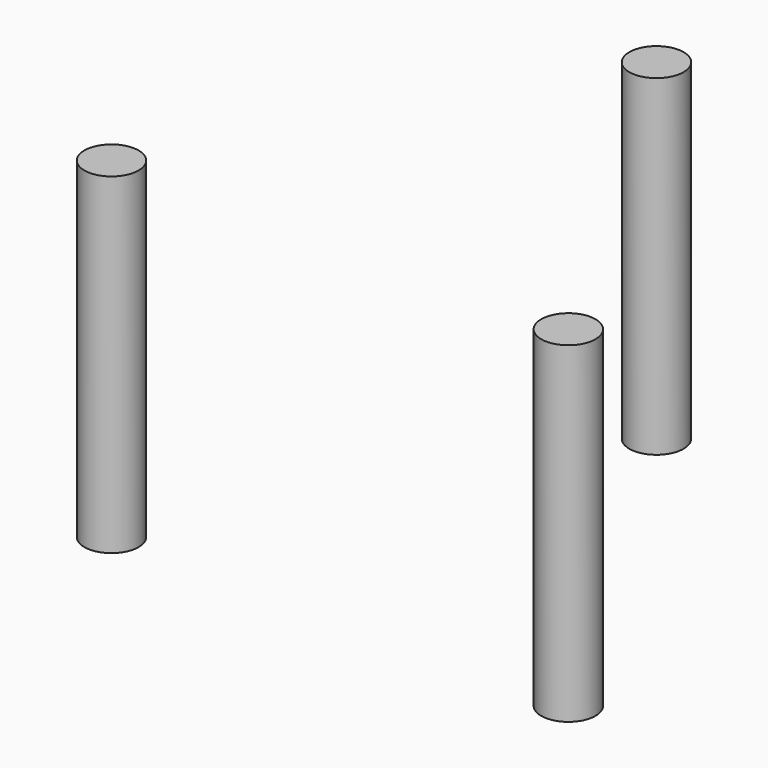
from build123d import *

# Parameters (mm, degrees)
CYLINDER037_R               = 0.9
CYLINDER037_DEPTH           = 11
CYLINDER038_R               = 0.9
CYLINDER038_DEPTH           = 11
CYLINDER038_PLACEMENT_ANGLE = -60
CYLINDER036_R               = 0.9
CYLINDER036_DEPTH           = 11
CYLINDER036_PLACEMENT_ANGLE = 60


with BuildPart() as cylinder037:
    # Cylinder037 → Cylinder037 (new body)
    with BuildSketch(Plane(origin=(0, 8.75, -2.5), x_dir=(-1, 0, 0), z_dir=(0, 0, 1))):
        Circle(CYLINDER037_R)
    extrude(amount=CYLINDER037_DEPTH)


with BuildPart() as cylinder038:
    # Cylinder038 → Cylinder038 (new body)
    with BuildSketch(Plane.XY):
        Circle(CYLINDER038_R)
    extrude(amount=CYLINDER038_DEPTH)


with BuildPart() as cylinder038_1:
    # Cylinder038 placement: moved
    add(cylinder038.part.moved(Location((-7.577722, -4.375, -2.5))).rotate(Axis((-7.577722, -4.375, -2.5), (0, 0, 1)), CYLINDER038_PLACEMENT_ANGLE))


with BuildPart() as fusion011:
    # Cylinder036 → Cylinder036 (new body)
    with BuildSketch(Plane.XY):
        Circle(CYLINDER036_R)
    extrude(amount=CYLINDER036_DEPTH)


with BuildPart() as fusion011_1:
    # Cylinder036 placement: moved
    add(fusion011.part.moved(Location((7.577722, -4.375, -2.5))).rotate(Axis((7.577722, -4.375, -2.5), (0, 0, 1)), CYLINDER036_PLACEMENT_ANGLE))

    # Fusion011: union Cylinder037, Cylinder038
    add(cylinder037.part)
    add(cylinder038_1.part)


with BuildPart() as fusion011_2:
    # Fusion011 placement: moved
    add(fusion011_1.part.moved(Location((0, 0, -0.5))))


solid = fusion011_2.part
